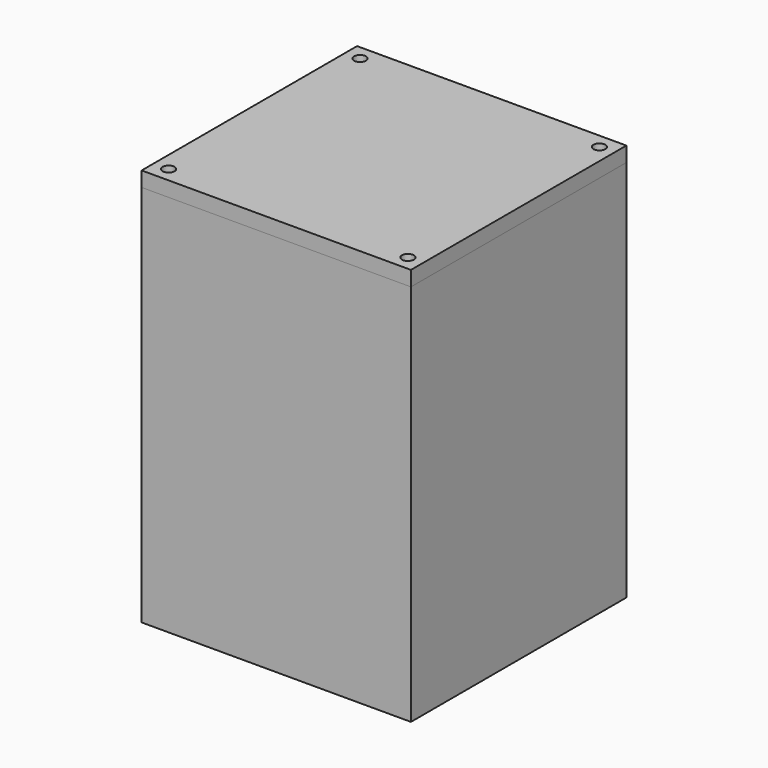
from build123d import *

# Parameters (mm, degrees)
SKETCH_W      = 45
SKETCH_H      = 45
PAD_DEPTH     = 2.5
SKETCH001_W   = 45
SKETCH001_H   = 45
SKETCH001_W_2 = 40
SKETCH001_H_2 = 40
PAD001_DEPTH  = 52
SKETCH002_W   = 45
SKETCH002_H   = 45
PAD002_DEPTH  = 10
SKETCH003_W   = 45
SKETCH003_H   = 45
SKETCH003_R   = 1
PAD003_DEPTH  = 2.5


with BuildPart() as obj1:
    # Sketch → Pad (new body)
    with BuildSketch(Plane.XY):
        Rectangle(SKETCH_W, SKETCH_H)
    extrude(amount=PAD_DEPTH)

    # Sketch001 (on Face6 of Pad) → Pad001 (join)
    with BuildSketch(Plane.XY.offset(2.5)):
        Rectangle(SKETCH001_W, SKETCH001_H)
        Rectangle(SKETCH001_W_2, SKETCH001_H_2, mode=Mode.SUBTRACT)
    extrude(amount=PAD001_DEPTH)

    # Sketch002 (on Face3 of Pad001) → Pad002 (join)
    with BuildSketch(Plane.XY.offset(54.5)):
        Rectangle(SKETCH002_W, SKETCH002_H)
        with BuildLine():
            Line((-20, 17.5), (-20, -17.5))
            ThreePointArc((-17.5, -20), (-18.232233, -18.232233), (-20, -17.5))
            Line((-17.5, -20), (17.5, -20))
            ThreePointArc((20, -17.5), (18.232233, -18.232233), (17.5, -20))
            Line((20, -17.5), (20, 17.5))
            ThreePointArc((17.5, 20), (18.232233, 18.232233), (20, 17.5))
            Line((17.5, 20), (-17.5, 20))
            ThreePointArc((-20, 17.5), (-18.232233, 18.232233), (-17.5, 20))
        make_face(mode=Mode.SUBTRACT)
    extrude(amount=PAD002_DEPTH)


with BuildPart() as obj2:
    # Sketch003 → Pad003 (new body)
    with BuildSketch(Plane.XY):
        Rectangle(SKETCH003_W, SKETCH003_H)
        with Locations((-20, 20)):
            Circle(SKETCH003_R, mode=Mode.SUBTRACT)
        with Locations((20, 20)):
            Circle(SKETCH003_R, mode=Mode.SUBTRACT)
        with Locations((20, -20)):
            Circle(SKETCH003_R, mode=Mode.SUBTRACT)
        with Locations((-20, -20)):
            Circle(SKETCH003_R, mode=Mode.SUBTRACT)
    extrude(amount=PAD003_DEPTH)


with BuildPart() as obj2_1:
    # Body001 placement: moved
    add(obj2.part.moved(Location((0, 0, 64))))


solid = Compound([obj1.part, obj2_1.part])
